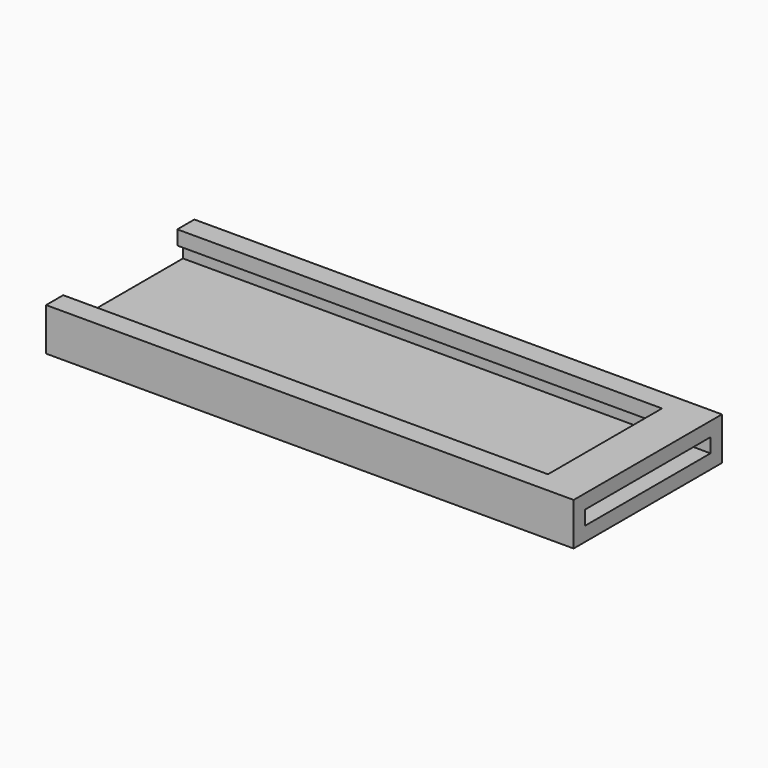
from build123d import *

# Parameters (mm, degrees)
BOX002_W     = 34
BOX002_H     = 10
BOX002_DEPTH = 3
BOX_W        = 37
BOX_H        = 11
BOX_DEPTH    = 1
BOX001_W     = 37
BOX001_H     = 13
BOX001_DEPTH = 3


with BuildPart() as cube002:
    # Box002 → Box002 (new body)
    with BuildSketch(Plane(origin=(0, 0.5, 0), x_dir=(1, 0, 0), z_dir=(0, 0, 1))):
        with Locations((17, 5)):
            Rectangle(BOX002_W, BOX002_H)
    extrude(amount=BOX002_DEPTH)


with BuildPart() as cube:
    # Box → Box (new body)
    with BuildSketch(Plane.XY):
        with Locations((18.5, 5.5)):
            Rectangle(BOX_W, BOX_H)
    extrude(amount=BOX_DEPTH)


with BuildPart() as cut001:
    # Box001 → Box001 (new body)
    with BuildSketch(Plane(origin=(0, -1, -1), x_dir=(1, 0, 0), z_dir=(0, 0, 1))):
        with Locations((18.5, 6.5)):
            Rectangle(BOX001_W, BOX001_H)
    extrude(amount=BOX001_DEPTH)

    # Cut: cut Cube
    add(cube.part, mode=Mode.SUBTRACT)

    # Cut001: cut Cube002
    add(cube002.part, mode=Mode.SUBTRACT)


solid = cut001.part
